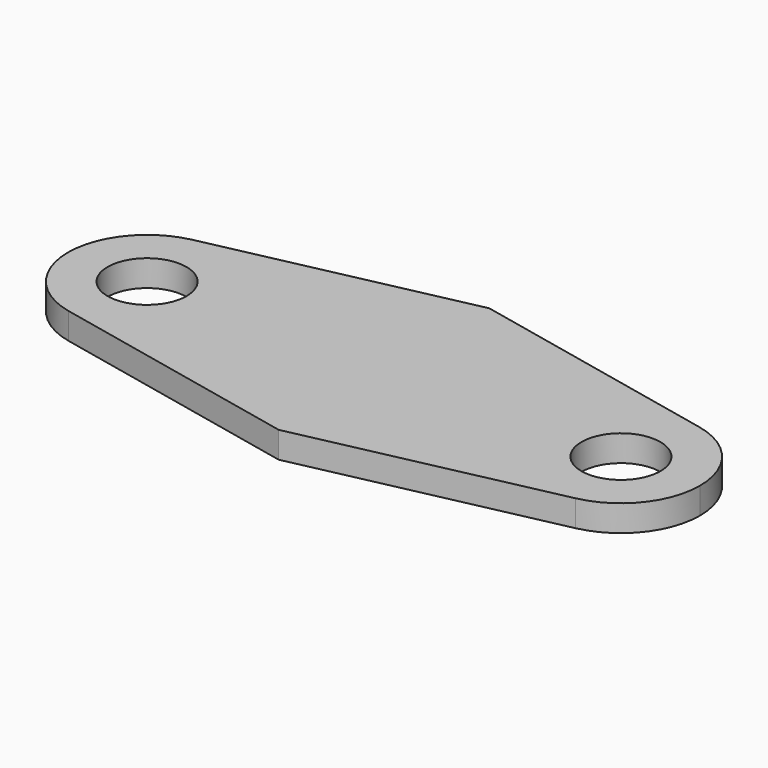
from build123d import *

# Parameters (mm, degrees)
F0_R     = 1.5
F1_DEPTH = 1


with BuildPart() as f1:
    # F0 (on Top) → F1 (new body)
    with BuildSketch(Plane.XY):
        with BuildLine():
            Line((0, -5), (0, 0))
            Line((0, 0), (-6, 0))
            ThreePointArc((-6, 0), (-7.114352, -2.333309), (-9.629555, -2.9332))
            Line((-9.629555, -2.9332), (0, -5))
        make_face()
        with BuildLine():
            Line((-6, 0), (0, 0))
            Line((0, 0), (0, 5))
            Line((0, 5), (-9.629555, 2.9332))
            ThreePointArc((-9.629555, 2.9332), (-7.114352, 2.333309), (-6, 0))
        make_face()
        with BuildLine():
            Line((0, 5), (0, 0))
            Line((0, 0), (6, 0))
            ThreePointArc((6, 0), (7.114352, 2.333309), (9.629555, 2.9332))
            Line((9.629555, 2.9332), (0, 5))
        make_face()
        with BuildLine():
            Line((6, 0), (0, 0))
            Line((0, 0), (0, -5))
            Line((0, -5), (9.629555, -2.9332))
            ThreePointArc((9.629555, -2.9332), (7.114352, -2.333309), (6, 0))
        make_face()
        with BuildLine():
            ThreePointArc((9.629555, 2.9332), (7.114352, 2.333309), (6, 0))
            ThreePointArc((6, 0), (7.114352, -2.333309), (9.629555, -2.9332))
            ThreePointArc((9.629555, -2.9332), (11.333309, -1.885648), (12, 0))
            ThreePointArc((12, 0), (11.333309, 1.885648), (9.629555, 2.9332))
        make_face()
        with BuildLine():
            ThreePointArc((10.5, 0), (9, -1.5), (7.5, 0))
            ThreePointArc((7.5, 0), (9, 1.5), (10.5, 0))
        make_face(mode=Mode.SUBTRACT)
        with BuildLine():
            ThreePointArc((-9.629555, -2.9332), (-7.114352, -2.333309), (-6, 0))
            ThreePointArc((-6, 0), (-7.114352, 2.333309), (-9.629555, 2.9332))
            ThreePointArc((-9.629555, 2.9332), (-12, 0), (-9.629555, -2.9332))
        make_face()
        with Locations((-9, 0)):
            Circle(F0_R, mode=Mode.SUBTRACT)
    extrude(amount=F1_DEPTH)


solid = f1.part
